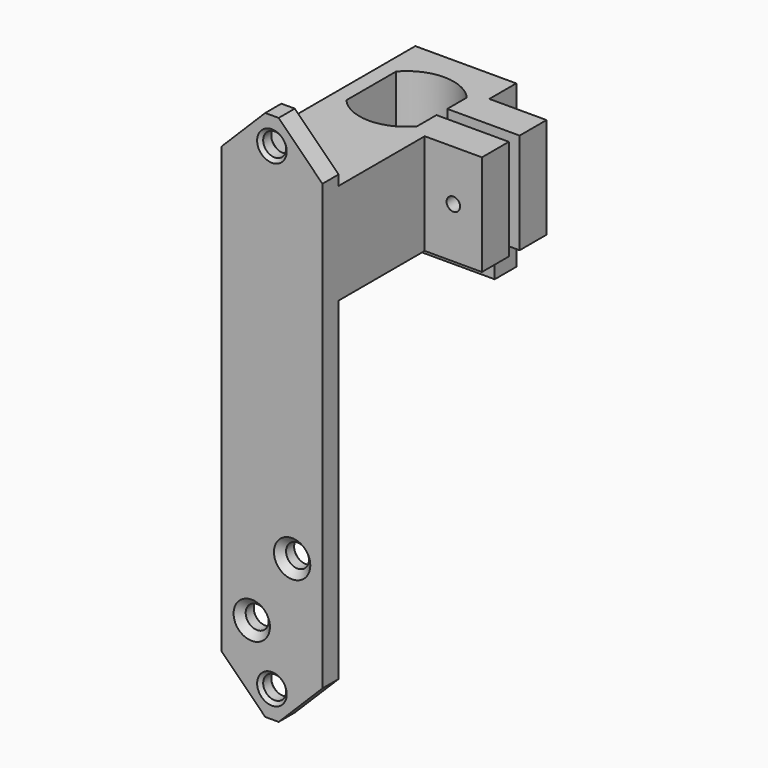
from build123d import *

# Parameters (mm, degrees)
CYLINDER099_R               = 3
CYLINDER099_DEPTH           = 3
CYLINDER098_R               = 5
CYLINDER098_DEPTH           = 3
CYLINDER090_R               = 1.2
CYLINDER090_DEPTH           = 13
CYLINDER091_R               = 1
CYLINDER091_DEPTH           = 12
CYLINDER091_ROLL_ANGLE      = 89.999919
CYLINDER091_PITCH_ANGLE     = -3.6e-05
CYLINDER091_PLACEMENT_ANGLE = 179.999964
CYLINDER069_R               = 2.2
CYLINDER069_DEPTH           = 12
CYLINDER069_ROLL_ANGLE      = 89.999919
CYLINDER069_PITCH_ANGLE     = -3.6e-05
CYLINDER069_PLACEMENT_ANGLE = 179.999964
CYLINDER068_R               = 1.2
CYLINDER068_DEPTH           = 12
CYLINDER068_ROLL_ANGLE      = 89.999919
CYLINDER068_PITCH_ANGLE     = -3.6e-05
CYLINDER068_PLACEMENT_ANGLE = 179.999964
BOX406016_W                 = 49
BOX406016_H                 = 2
BOX406016_DEPTH             = 32
BOX406008016_W              = 9
BOX406008016_H              = 12
BOX406008016_DEPTH          = 15
BOX406017_W                 = 16
BOX406017_H                 = 10.5
BOX406017_DEPTH             = 28
CYLINDER067_R               = 7
CYLINDER067_DEPTH           = 26
COMMON004_PLACEMENT_ANGLE   = 90
BOX406008015_W              = 15
BOX406008015_H              = 31
BOX406008015_DEPTH          = 15
BOX406008017_W              = 15
BOX406008017_H              = 4
BOX406008017_DEPTH          = 24
CYLINDER096_R               = 1.7
CYLINDER096_DEPTH           = 21
BOX_W                       = 15
BOX_H                       = 3
BOX_DEPTH                   = 8
CYLINDER097_R               = 1.7
CYLINDER097_DEPTH           = 21
BOX406008018_W              = 15
BOX406008018_H              = 3
BOX406008018_DEPTH          = 8
CHAMFER005_SIZE             = 1
CYLINDER093_R               = 1.7
CYLINDER093_DEPTH           = 21
CYLINDER092_R               = 1.7
CYLINDER092_DEPTH           = 21
BOX406008014_W              = 15
BOX406008014_H              = 3
BOX406008014_DEPTH          = 63
CHAMFER006_SIZE             = 1
CHAMFER007_SIZE             = 6.5
CHAMFER009_SIZE             = 0.5
CHAMFER010_SIZE             = 0.5


with BuildPart() as cylinder099:
    # Cylinder099 → Cylinder099 (new body)
    with BuildSketch(Plane(origin=(-9, -9, 36), x_dir=(1, 0, 0), z_dir=(0, 0, 1))):
        Circle(CYLINDER099_R)
    extrude(amount=CYLINDER099_DEPTH)


with BuildPart() as cut081:
    # Cylinder098 → Cylinder098 (new body)
    with BuildSketch(Plane(origin=(-9, -9, 36), x_dir=(1, 0, 0), z_dir=(0, 0, 1))):
        Circle(CYLINDER098_R)
    extrude(amount=CYLINDER098_DEPTH)

    # Cut081: cut Cylinder099
    add(cylinder099.part, mode=Mode.SUBTRACT)


with BuildPart() as cylinder084:
    # Cylinder090 → Cylinder090 (new body)
    with BuildSketch(Plane(origin=(0, 16, 35.8), x_dir=(1, 0, 0), z_dir=(0, -1, 0))):
        Circle(CYLINDER090_R)
    extrude(amount=CYLINDER090_DEPTH)


with BuildPart() as cylinder091:
    # Cylinder091 → Cylinder091 (new body)
    with BuildSketch(Plane.XY):
        Circle(CYLINDER091_R)
    extrude(amount=CYLINDER091_DEPTH)


with BuildPart() as cylinder091_1:
    # Cylinder091 roll: moved
    add(cylinder091.part.rotate(Axis((0, 0, 0), (1, 0, 0)), CYLINDER091_ROLL_ANGLE))


with BuildPart() as cylinder091_2:
    # Cylinder091 pitch: moved
    add(cylinder091_1.part.rotate(Axis((0, 0, 0), (0, 1, 0)), CYLINDER091_PITCH_ANGLE))


with BuildPart() as cylinder091_3:
    # Cylinder091 placement: moved
    add(cylinder091_2.part.moved(Location((11.75, -12, 42.5))).rotate(Axis((11.75, -12, 42.5), (0, 0, 1)), CYLINDER091_PLACEMENT_ANGLE))


with BuildPart() as cylinder069:
    # Cylinder069 → Cylinder069 (new body)
    with BuildSketch(Plane.XY):
        Circle(CYLINDER069_R)
    extrude(amount=CYLINDER069_DEPTH)


with BuildPart() as cylinder069_1:
    # Cylinder069 roll: moved
    add(cylinder069.part.rotate(Axis((0, 0, 0), (1, 0, 0)), CYLINDER069_ROLL_ANGLE))


with BuildPart() as cylinder069_2:
    # Cylinder069 pitch: moved
    add(cylinder069_1.part.rotate(Axis((0, 0, 0), (0, 1, 0)), CYLINDER069_PITCH_ANGLE))


with BuildPart() as cylinder069_3:
    # Cylinder069 placement: moved
    add(cylinder069_2.part.moved(Location((11.75, 3, 42.5))).rotate(Axis((11.75, 3, 42.5), (0, 0, 1)), CYLINDER069_PLACEMENT_ANGLE))


with BuildPart() as fusion103077013004017011:
    # Cylinder068 → Cylinder068 (new body)
    with BuildSketch(Plane.XY):
        Circle(CYLINDER068_R)
    extrude(amount=CYLINDER068_DEPTH)


with BuildPart() as fusion103077013004017011_1:
    # Cylinder068 roll: moved
    add(fusion103077013004017011.part.rotate(Axis((0, 0, 0), (1, 0, 0)), CYLINDER068_ROLL_ANGLE))


with BuildPart() as fusion103077013004017011_2:
    # Cylinder068 pitch: moved
    add(fusion103077013004017011_1.part.rotate(Axis((0, 0, 0), (0, 1, 0)), CYLINDER068_PITCH_ANGLE))


with BuildPart() as fusion103077013004017011_3:
    # Cylinder068 placement: moved
    add(fusion103077013004017011_2.part.moved(Location((11.75, 0, 42.5))).rotate(Axis((11.75, 0, 42.5), (0, 0, 1)), CYLINDER068_PLACEMENT_ANGLE))

    # Fusion103077013: union Cylinder069
    add(cylinder069_3.part)

    # Fusion103077013004017011: union Cylinder091
    add(cylinder091_3.part)


with BuildPart() as clamp_slot:
    # Box406016 → Box406016 (new body)
    with BuildSketch(Plane(origin=(48.48, 1, 22), x_dir=(-1, 0, 0), z_dir=(0, 0, 1))):
        with Locations((24.5, 1)):
            Rectangle(BOX406016_W, BOX406016_H)
    extrude(amount=BOX406016_DEPTH)


with BuildPart() as cube351:
    # Box406008016 → Box406008016 (new body)
    with BuildSketch(Plane(origin=(7, -6, 35), x_dir=(1, 0, 0), z_dir=(0, 0, 1))):
        with Locations((4.5, 6)):
            Rectangle(BOX406008016_W, BOX406008016_H)
    extrude(amount=BOX406008016_DEPTH)


with BuildPart() as gearbox001:
    # Box406017 → Box406017 (new body)
    with BuildSketch(Plane(origin=(-8, -5.25, 18), x_dir=(1, 0, 0), z_dir=(0, 0, 1))):
        with Locations((8, 5.25)):
            Rectangle(BOX406017_W, BOX406017_H)
    extrude(amount=BOX406017_DEPTH)


with BuildPart() as motor_hole:
    # Cylinder067 → Cylinder067 (new body)
    with BuildSketch(Plane.XY.offset(20)):
        Circle(CYLINDER067_R)
    extrude(amount=CYLINDER067_DEPTH)

    # Common004: intersect gearbox001
    add(gearbox001.part, mode=Mode.INTERSECT)


with BuildPart() as motor_hole_1:
    # Common004 placement: moved
    add(motor_hole.part.moved(Location((0, 0, 5))).rotate(Axis((0, 0, 5), (0, 0, 1)), COMMON004_PLACEMENT_ANGLE))


with BuildPart() as cut075:
    # Box406008015 → Box406008015 (new body)
    with BuildSketch(Plane(origin=(-7.5, -22, 35), x_dir=(1, 0, 0), z_dir=(0, 0, 1))):
        with Locations((7.5, 15.5)):
            Rectangle(BOX406008015_W, BOX406008015_H)
    extrude(amount=BOX406008015_DEPTH)

    # Cut073: cut motor-hole
    add(motor_hole_1.part, mode=Mode.SUBTRACT)

    # Fusion103077013004017010: union Cube351
    add(cube351.part)

    # Cut074: cut clamp-slot
    add(clamp_slot.part, mode=Mode.SUBTRACT)

    # Cut075: cut Fusion103077013004017011
    add(fusion103077013004017011_3.part, mode=Mode.SUBTRACT)


with BuildPart() as cut082:
    # Box406008017 → Box406008017 (new body)
    with BuildSketch(Plane(origin=(-7.5, 7, 26), x_dir=(1, 0, 0), z_dir=(0, 0, 1))):
        with Locations((7.5, 2)):
            Rectangle(BOX406008017_W, BOX406008017_H)
    extrude(amount=BOX406008017_DEPTH)

    # Fusion103077013004017012: union Cut075
    add(cut075.part)

    # Cut076: cut Cylinder084
    add(cylinder084.part, mode=Mode.SUBTRACT)


with BuildPart() as cut082_1:
    # Cut076 placement: moved
    add(cut082.part.moved(Location((0, 0, -5))))

    # Cut082: cut Cut081
    add(cut081.part, mode=Mode.SUBTRACT)


with BuildPart() as cylinder096:
    # Cylinder096 → Cylinder096 (new body)
    with BuildSketch(Plane(origin=(0, -13, 49), x_dir=(1, 0, 0), z_dir=(0, -1, 0))):
        Circle(CYLINDER096_R)
    extrude(amount=CYLINDER096_DEPTH)


with BuildPart() as cut080:
    # Box → Box (new body)
    with BuildSketch(Plane(origin=(-7.5, -25, 45), x_dir=(1, 0, 0), z_dir=(0, 0, 1))):
        with Locations((7.5, 1.5)):
            Rectangle(BOX_W, BOX_H)
    extrude(amount=BOX_DEPTH)

    # Cut080: cut Cylinder096
    add(cylinder096.part, mode=Mode.SUBTRACT)


with BuildPart() as cylinder097:
    # Cylinder097 → Cylinder097 (new body)
    with BuildSketch(Plane(origin=(0, -13, -22), x_dir=(1, 0, 0), z_dir=(0, -1, 0))):
        Circle(CYLINDER097_R)
    extrude(amount=CYLINDER097_DEPTH)


with BuildPart() as chamfer005:
    # Box406008018 → Box406008018 (new body)
    with BuildSketch(Plane(origin=(-7.5, -25, -26), x_dir=(1, 0, 0), z_dir=(0, 0, 1))):
        with Locations((7.5, 1.5)):
            Rectangle(BOX406008018_W, BOX406008018_H)
    extrude(amount=BOX406008018_DEPTH)

    # Cut079: cut Cylinder097
    add(cylinder097.part, mode=Mode.SUBTRACT)

    # Fusion103077013004017015: union Cut080
    add(cut080.part)

    # Chamfer005
    chamfer005_edges = [chamfer005.edges().sort_by_distance(p)[0] for p in [
        (-1.7, -22, -22),
        (-1.7, -22, 49),
    ]]
    chamfer(chamfer005_edges, length=CHAMFER005_SIZE)


with BuildPart() as cylinder093:
    # Cylinder093 → Cylinder093 (new body)
    with BuildSketch(Plane(origin=(3, -13, -4), x_dir=(1, 0, 0), z_dir=(0, -1, 0))):
        Circle(CYLINDER093_R)
    extrude(amount=CYLINDER093_DEPTH)


with BuildPart() as fusion103077013004017013:
    # Cylinder092 → Cylinder092 (new body)
    with BuildSketch(Plane(origin=(-3, -13, -14), x_dir=(1, 0, 0), z_dir=(0, -1, 0))):
        Circle(CYLINDER092_R)
    extrude(amount=CYLINDER092_DEPTH)

    # Fusion103077013004017013: union Cylinder093
    add(cylinder093.part)


with BuildPart() as chamfer010:
    # Box406008014 → Box406008014 (new body)
    with BuildSketch(Plane(origin=(-7.5, -25, -18), x_dir=(1, 0, 0), z_dir=(0, 0, 1))):
        with Locations((7.5, 1.5)):
            Rectangle(BOX406008014_W, BOX406008014_H)
    extrude(amount=BOX406008014_DEPTH)

    # Cut077: cut Fusion103077013004017013
    add(fusion103077013004017013.part, mode=Mode.SUBTRACT)

    # Chamfer006
    chamfer006_edges = [chamfer010.edges().sort_by_distance(p)[0] for p in [
        (-4.7, -25, -14),
        (1.3, -25, -4),
    ]]
    chamfer(chamfer006_edges, length=CHAMFER006_SIZE)

    # Fusion103077013004017016: union Chamfer005
    add(chamfer005.part)

    # Chamfer007
    chamfer007_edges = [chamfer010.edges().sort_by_distance(p)[0] for p in [
        (-7.5, -23.5, -26),
        (7.5, -23.5, -26),
        (7.5, -23.5, 53),
        (-7.5, -23.5, 53),
    ]]
    chamfer(chamfer007_edges, length=CHAMFER007_SIZE)

    # Fusion103077013004017017: union Cut082
    add(cut082_1.part)

    # Chamfer009
    chamfer009_edges = [chamfer010.edges().sort_by_distance(p)[0] for p in [
        (-4.7, -22, -14),
        (1.3, -22, -4),
    ]]
    chamfer(chamfer009_edges, length=CHAMFER009_SIZE)

    # Chamfer010
    chamfer010_edges = [chamfer010.edges().sort_by_distance(p)[0] for p in [
        (-1.7, -25, -22),
        (-1.7, -25, 49),
    ]]
    chamfer(chamfer010_edges, length=CHAMFER010_SIZE)


solid = chamfer010.part
